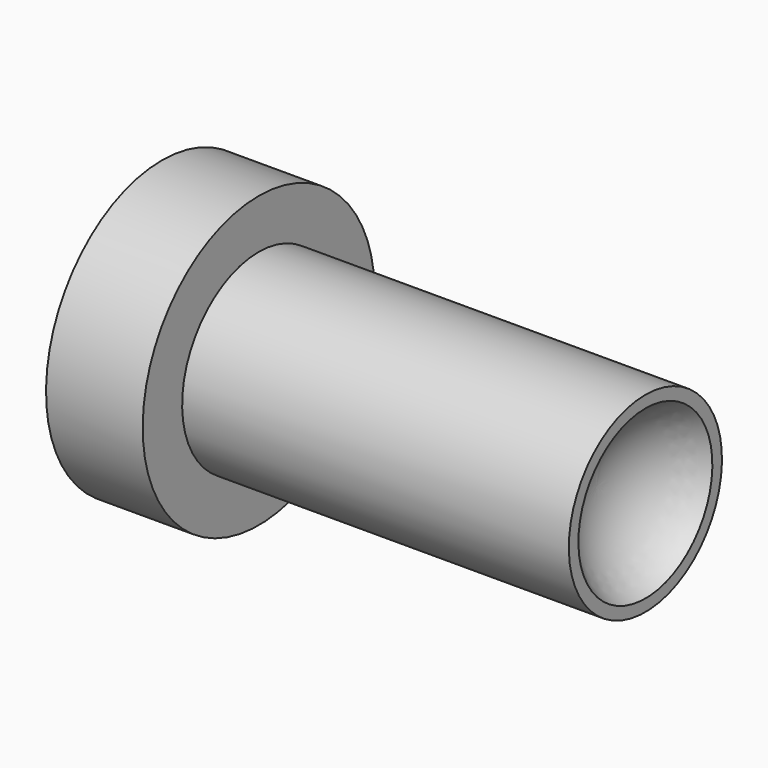
from build123d import *

# Parameters (mm, degrees)
F0_W = 50.8
F0_H = 12.573


with BuildPart() as f1:
    # F0 (on Front) → F1 (revolve)
    with BuildSketch(Plane.XZ):
        Polygon((0, 19.05), (0, 0), (12.7, 0), (12.7, 12.573), (12.7, 19.05), align=None)
        with Locations((38.1, 6.2865)):
            Rectangle(F0_W, F0_H)
    revolve(axis=Axis((6.35, 0, 0), (-1, 0, 0)))

    # F2 (on Front) → F3 (revolve, cut)
    with BuildSketch(Plane.XZ):
        with BuildLine():
            Line((63.5, 0), (63.5, 10.998523))
            ThreePointArc((63.5, 10.998523), (58.851477, 6.35), (57.15, 0))
            Line((57.15, 0), (63.5, 0))
        make_face()
    revolve(axis=Axis((60.325, 0, 0), (1, 0, 0)), mode=Mode.SUBTRACT)


solid = f1.part
